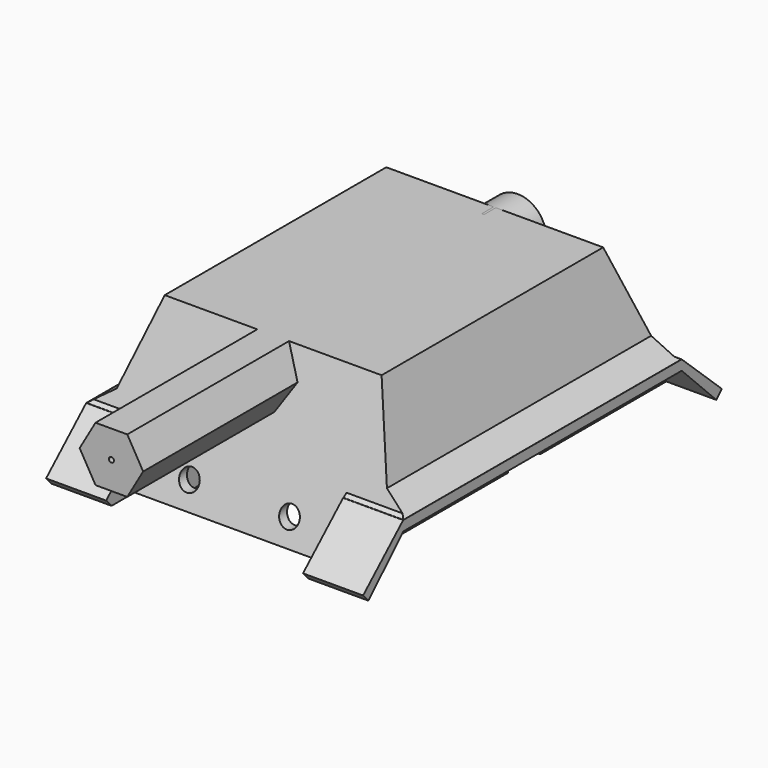
from build123d import *

# Parameters (mm, degrees)
SKETCH_W             = 65
SKETCH_H             = 83
PAD_DEPTH            = 45
SKETCH001_W          = 83
SKETCH001_H          = 32
PAD001_DEPTH         = 15
PAD002_DEPTH         = 15
POCKET_DEPTH         = 403.6691065481
POCKET001_DEPTH      = 500
POCKET001_DEPTH_BACK = 100
PAD003_DEPTH         = 16
SKETCH007_W          = 3
SKETCH007_H          = 135.5960614908
PAD004_DEPTH         = 16
POCKET002_DEPTH      = 414.7315387876
POCKET003_DEPTH      = 5
SKETCH008_W          = 54
SKETCH008_H          = 76
POCKET004_DEPTH      = 35
PAD005_DEPTH         = 65
CHAMFER_SIZE         = 5.3
CHAMFER001_SIZE      = 5.3
CHAMFER002_SIZE      = 0.8999
CHAMFER003_SIZE      = 0.899
CHAMFER004_SIZE      = 0.8999
CHAMFER005_SIZE      = 0.8999
POCKET005_DEPTH      = 80.0010001
POCKET006_DEPTH      = 80.0010001
POCKET007_DEPTH      = 10000
POCKET007_DEPTH_BACK = 100
POCKET008_DEPTH      = 95.001
SKETCH012_W          = 5.5
SKETCH012_H          = 12
POCKET009_DEPTH      = 5
POCKET010_DEPTH      = 20
POCKET010_DEPTH_BACK = 20
POCKET011_DEPTH      = 6
SKETCH014_R          = 8.518625
PAD006_DEPTH         = 13
SKETCH015_R          = 3.5
POCKET012_DEPTH      = 15
SKETCH016_R          = 0.75
POCKET013_DEPTH      = 40
SKETCH018_W          = 5.5
SKETCH018_H          = 12
POCKET014_DEPTH      = 5
POCKET014_FACE131_W  = 12
POCKET014_FACE131_H  = 5.5
PAD007_DEPTH         = 5
POCKET015_DEPTH      = 38.88
POCKET015_DEPTH_BACK = 37
SKETCH020_R          = 3
POCKET016_DEPTH      = 173.1015589479
SKETCH021_R          = 0.75
POCKET017_DEPTH      = 30


with BuildPart() as part:
    # Sketch → Pad (new body)
    with BuildSketch(Plane.XY):
        Rectangle(SKETCH_W, SKETCH_H)
    extrude(amount=PAD_DEPTH)

    # Sketch001 (on Face4 of Pad) → Pad001 (join)
    with BuildSketch(Plane(origin=(-32.5, 0, 0), x_dir=(0, -1, 0), z_dir=(-1, 0, 0))):
        with Locations((0, 29)):
            Rectangle(SKETCH001_W, SKETCH001_H)
    pad001 = extrude(amount=PAD001_DEPTH)

    # Mirrored: Pad001 across YZ
    add(pad001.mirror(Plane.YZ))

    # Sketch002 (on Face4 of Mirrored) → Pad002 (join)
    with BuildSketch(Plane.XZ.offset(41.5)):
        Polygon((-47.5, 45), (47.5, 45), (47.5, 13), (32.5, 13), (32.5, 0), (-32.5, 0), (-32.5, 13), (-47.5, 13), align=None)
    pad002 = extrude(amount=PAD002_DEPTH)

    # Mirrored001: Pad002 across XZ
    add(pad002.mirror(Plane.XZ))

    # Sketch003 (on Face13 of Mirrored001) → Pocket (cut, through all)
    with BuildSketch(Plane(origin=(-47.5, 0, 0), x_dir=(0, -1, 0), z_dir=(-1, 0, 0))):
        Polygon((41.5, 45), (56.5, 0), (69.973511, 50.863071), align=None)
    pocket = extrude(amount=-POCKET_DEPTH, mode=Mode.SUBTRACT)

    # Mirrored002: Pocket across XZ
    add(pocket.mirror(Plane.XZ), mode=Mode.SUBTRACT)

    # Sketch004 → Pocket001 (cut, two sides)
    with BuildSketch(Plane.XZ) as pocket001_sk:
        Polygon((-32.5, 45), (-47.5, 0), (-68.972275, 31.059837), (-58.790833, 51.045628), align=None)
    pocket001 = extrude(amount=-POCKET001_DEPTH, mode=Mode.SUBTRACT) + extrude(pocket001_sk.sketch, amount=POCKET001_DEPTH_BACK, mode=Mode.SUBTRACT)

    # Mirrored003: Pocket001 across YZ
    add(pocket001.mirror(Plane.YZ), mode=Mode.SUBTRACT)

    # Sketch006 (on DatumPlane) → Pad003 (join)
    with BuildSketch(Plane(origin=(-47.5, 0, 4), x_dir=(0, -1, 0), z_dir=(-1, 0, 0))):
        Polygon((-68.401131891, -2.9951612268), (-52.1666666667, 12), (52.1666666667, 12), (67.1949295998, -1.7895363668), (65.1666666666, -4), (52.1666666667, 9), (-52.1666666667, 9), (-66.3655953138, -5.1989286472), align=None)
    pad003 = extrude(amount=-PAD003_DEPTH)

    # Sketch007 (on Face8 of Pad003) → Pad004 (join)
    with BuildSketch(Plane(origin=(0, 0, 0), x_dir=(1, 0, 0), z_dir=(0, 0, -1))):
        with Locations((-31, -0.6031011456)):
            Rectangle(SKETCH007_W, SKETCH007_H)
    pad004 = extrude(amount=-PAD004_DEPTH)

    # Pad004 Face41 → Pocket002 (cut, through all)
    with BuildSketch(Plane(origin=(-32.5, 62.9896434829, 11.0016129244), x_dir=(0, 1, 0), z_dir=(-1, 0, 0))):
        Polygon((5.4114884081, -4.9983870756), (5.4114884081, 9.9967741512), (-10.8229768162, -4.9983870756), align=None)
    pocket002 = extrude(amount=-POCKET002_DEPTH, mode=Mode.SUBTRACT)

    # Pocket002 Face27 → Pocket003 (cut)
    with BuildSketch(Plane(origin=(-32.5, -62.1855086221, 11.4034878777), x_dir=(0, 1, 0), z_dir=(-1, 0, 0))):
        Polygon((10.0188419554, -4.5965121223), (-5.0094209777, 9.1930242445), (-5.0094209777, -4.5965121223), align=None)
    pocket003 = extrude(amount=-POCKET003_DEPTH, mode=Mode.SUBTRACT)

    # Mirrored004: Pad003 across YZ
    add(pad003.mirror(Plane.YZ))

    # Mirrored005: Pad004 across YZ
    add(pad004.mirror(Plane.YZ))

    # Mirrored006: Pocket002 across YZ
    add(pocket002.mirror(Plane.YZ), mode=Mode.SUBTRACT)

    # Mirrored007: Pocket003 across YZ
    add(pocket003.mirror(Plane.YZ), mode=Mode.SUBTRACT)

    # Sketch008 (on Face8 of Mirrored007) → Pocket004 (cut)
    with BuildSketch(Plane(origin=(0, 0, 0), x_dir=(1, 0, 0), z_dir=(0, 0, -1))):
        with Locations((0, -0.8994410524)):
            Rectangle(SKETCH008_W, SKETCH008_H)
    extrude(amount=-POCKET004_DEPTH, mode=Mode.SUBTRACT)

    # Sketch009 (on Face24 of Pocket004) → Pad005 (join)
    with BuildSketch(Plane(origin=(0, -37.1005589476, 0), x_dir=(-1, 0, 0), z_dir=(0, 1, 0))):
        Polygon((-4.7576784019, 45), (-9.5153568039, 36.7594592818), (-4.7576784019, 28.5189185635), (4.7576784019, 28.5189185635), (9.5153568039, 36.7594592818), (4.7576784019, 45), align=None)
    extrude(amount=-PAD005_DEPTH)

    # Chamfer
    chamfer_edges = [part.edges().sort_by_distance(p)[0] for p in [
        (42.166667, 0, 16),
    ]]
    chamfer(chamfer_edges, length=CHAMFER_SIZE)

    # Chamfer001
    chamfer001_edges = [part.edges().sort_by_distance(p)[0] for p in [
        (-42.166667, 0, 16),
    ]]
    chamfer(chamfer001_edges, length=CHAMFER001_SIZE)

    # Chamfer002
    chamfer002_edges = [part.edges().sort_by_distance(p)[0] for p in [
        (-44.816667, -51.166667, 16),
        (-37.333333, -51.166667, 16),
        (-32, -51.166667, 16),
        (-30.5, -51.166667, 16),
    ]]
    chamfer(chamfer002_edges, length=CHAMFER002_SIZE)

    # Chamfer003
    chamfer003_edges = [part.edges().sort_by_distance(p)[0] for p in [
        (30.5, -51.166667, 16),
        (32, -51.166667, 16),
        (37.333333, -51.166667, 16),
        (44.816667, -51.166667, 16),
    ]]
    chamfer(chamfer003_edges, length=CHAMFER003_SIZE)

    # Chamfer004
    chamfer004_edges = [part.edges().sort_by_distance(p)[0] for p in [
        (-30.5, 51.166667, 16),
        (-32, 51.166667, 16),
        (-37.333333, 51.166667, 16),
        (-44.816667, 51.166667, 16),
    ]]
    chamfer(chamfer004_edges, length=CHAMFER004_SIZE)

    # Chamfer005
    chamfer005_edges = [part.edges().sort_by_distance(p)[0] for p in [
        (44.816667, 51.166667, 16),
        (37.333333, 51.166667, 16),
        (32, 51.166667, 16),
        (30.5, 51.166667, 16),
    ]]
    chamfer(chamfer005_edges, length=CHAMFER005_SIZE)

    # Chamfer005 Face72 → Pocket005 (cut, through all)
    with BuildSketch(Plane(origin=(-32.5, 68.0917547069, 0.3349462577), x_dir=(0, 1, 0), z_dir=(-1, 0, 0))):
        Polygon((0.3093771841, 0.3349462577), (-0.6187543683, 0.3349462577), (0.3093771841, -0.6698925155), align=None)
    extrude(amount=-POCKET005_DEPTH, mode=Mode.SUBTRACT)

    # Pocket005 Face105 → Pocket006 (cut, through all)
    with BuildSketch(Plane(origin=(-32.5, -66.5188419554, 0.7368212111), x_dir=(0, 1, 0), z_dir=(-1, 0, 0))):
        Polygon((-0.6760876444, -1.4736424221), (1.3521752888, 0.7368212111), (-0.6760876444, 0.7368212111), align=None)
    extrude(amount=-POCKET006_DEPTH, mode=Mode.SUBTRACT)

    # Pocket006 Face73 → Pocket007 (cut, two sides)
    with BuildSketch(Plane(origin=(-31.5, 66.3350874397, -0.3996428824), x_dir=(0, -1, 0), z_dir=(1, 0, 0))) as pocket007_sk:
        Polygon((1.168420773, -0.3996428824), (-0.0305078741, 0.7992857648), (-1.1379128989, -0.3996428824), align=None)
    extrude(amount=-POCKET007_DEPTH, mode=Mode.SUBTRACT)
    extrude(pocket007_sk.sketch, amount=POCKET007_DEPTH_BACK, mode=Mode.SUBTRACT)

    # Sketch011 (on Face39 of Pocket007) → Pocket008 (cut, through all)
    with BuildSketch(Plane.YZ.offset(47.5)):
        Polygon((65.1666666667, 0), (68.818161, 3.6514943333), (70.985268, 1.013342), (68.517616, -0.789946), align=None)
    extrude(amount=-POCKET008_DEPTH, mode=Mode.SUBTRACT)

    # Sketch012 (on Face30 of Pocket008) → Pocket009 (cut)
    with BuildSketch(Plane(origin=(0, 0, 0), x_dir=(1, 0, 0), z_dir=(0, 0, -1))):
        with Locations((-29.75, -11.8994410524)):
            Rectangle(SKETCH012_W, SKETCH012_H)
    extrude(amount=-POCKET009_DEPTH, mode=Mode.SUBTRACT)

    # Sketch013 → Pocket010 (cut, two sides)
    with BuildSketch(Plane.YZ) as pocket010_sk:
        Polygon((-37.1005589476, 35), (-41.46302, 35), (-53.607724, 0), (-37.1005589476, 0), align=None)
    pocket010 = extrude(amount=-POCKET010_DEPTH, mode=Mode.SUBTRACT) + extrude(pocket010_sk.sketch, amount=POCKET010_DEPTH_BACK, mode=Mode.SUBTRACT)

    # Mirrored008: Pocket010 across XZ
    add(pocket010.mirror(Plane.XZ), mode=Mode.SUBTRACT)

    # Mirrored008 Face101 → Pocket011 (cut)
    with BuildSketch(Plane(origin=(0, 0.2373498677, 35), x_dir=(0, -1, 0), z_dir=(0, 0, -1))):
        Polygon((37.3379088153, 27), (-38.6620911847, 27), (-38.6620911847, 20), (-36.86320908, 20), (-36.86320908, -20), (-38.6620911847, -20), (-38.6620911847, -27), (37.3379088153, -27), (37.3379088153, -20), (37.3379088153, -8.4995325139), (37.3379088153, 8.4995325139), (37.3379088153, 20), align=None)
    extrude(amount=-POCKET011_DEPTH, mode=Mode.SUBTRACT)

    # Sketch014 (on Face128 of Pocket011) → Pad006 (join)
    with BuildSketch(Plane.XZ.offset(-37.1005589476)):
        with Locations((0, 36.4884)):
            Circle(SKETCH014_R)
    extrude(amount=-PAD006_DEPTH)

    # Sketch015 (on Face43 of Pad006) → Pocket012 (cut)
    with BuildSketch(Plane(origin=(0, 50.1005589476, 0), x_dir=(-1, 0, 0), z_dir=(0, 1, 0))):
        with Locations((0, 36.4884)):
            Circle(SKETCH015_R)
    extrude(amount=-POCKET012_DEPTH, mode=Mode.SUBTRACT)

    # Sketch016 (on Face67 of Pocket012) → Pocket013 (cut)
    with BuildSketch(Plane.XZ.offset(102.1005589476)):
        with Locations((0, 57.966855919)):
            Circle(SKETCH016_R)
    extrude(amount=-POCKET013_DEPTH, mode=Mode.SUBTRACT)

    # Sketch018 → Pocket014 (cut)
    with BuildSketch(Plane(origin=(0, 0, 0), x_dir=(1, 0, 0), z_dir=(0, 0, -1))):
        with Locations((29.75, -11.8994410524)):
            Rectangle(SKETCH018_W, SKETCH018_H)
    extrude(amount=-POCKET014_DEPTH, mode=Mode.SUBTRACT)

    # Pocket014 Face131 → Pad007 (add)
    with BuildSketch(Plane(origin=(-29.75, 11.8994410524, 5), x_dir=(0, -1, 0), z_dir=(0, 0, -1))):
        Rectangle(POCKET014_FACE131_W, POCKET014_FACE131_H)
    extrude(amount=PAD007_DEPTH)

    # Sketch019 → Pocket015 (cut, two sides)
    with BuildSketch(Plane.XZ) as pocket015_sk:
        Polygon((-29.5, 16.8537200999), (-36.0278850321, 23.381605132), (-32.1550867428, 35), (-27, 35), (-23.389076, 18.833223), align=None)
    pocket015 = extrude(amount=-POCKET015_DEPTH, mode=Mode.SUBTRACT) + extrude(pocket015_sk.sketch, amount=POCKET015_DEPTH_BACK, mode=Mode.SUBTRACT)

    # Mirrored009: Pocket015 across YZ
    add(pocket015.mirror(Plane.YZ), mode=Mode.SUBTRACT)

    # Sketch020 (on DatumPlane) → Pocket016 (cut, through all)
    with BuildSketch(Plane(origin=(0, 71, 34), x_dir=(1, 0, 0), z_dir=(0, 1, 0))):
        with Locations((-15, 26.885509115)):
            Circle(SKETCH020_R)
        with Locations((15, 26.885509115)):
            Circle(SKETCH020_R)
    extrude(amount=-POCKET016_DEPTH, mode=Mode.SUBTRACT)

    # Sketch021 (on Face71 of Pocket016) → Pocket017 (cut)
    with BuildSketch(Plane.XZ.offset(102.1005589476)):
        with Locations((0, 36.7594592818)):
            Circle(SKETCH021_R)
    extrude(amount=-POCKET017_DEPTH, mode=Mode.SUBTRACT)


solid = part.part
